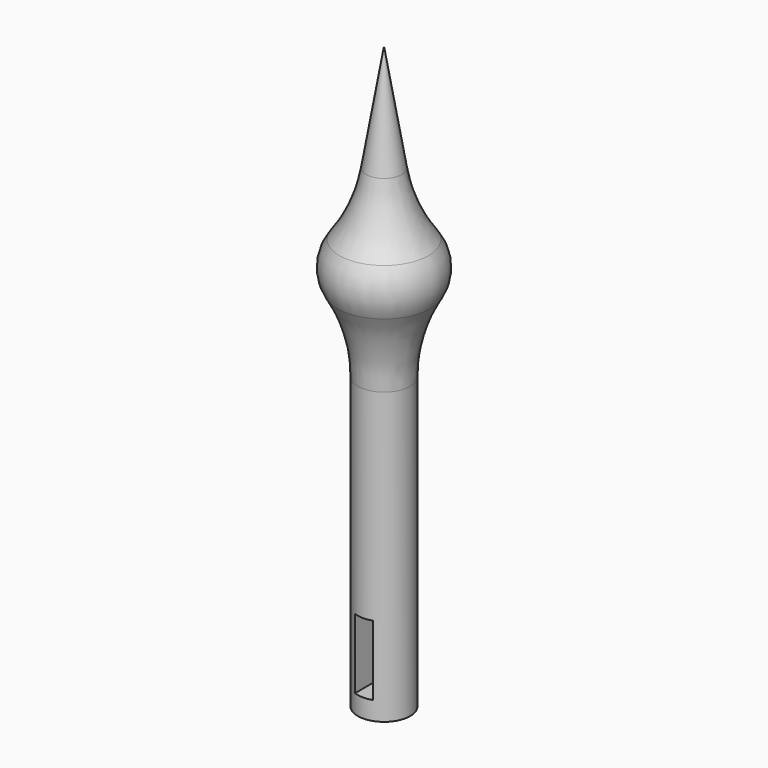
from build123d import *

# Parameters (mm, degrees)
F2_W     = 0.6228546263
F2_H     = 2.4024397135
F3_DEPTH = 12.7
F4_R     = 5.08


with BuildPart() as f1:
    # F0 (on Front) → F1 (revolve)
    with BuildSketch(Plane.XZ):
        with BuildLine():
            Line((1.8883474847, 0), (0.9883474847, 5.3636118397))
            Line((0.9883474847, 5.3636118397), (0.9883474847, -14.6363881603))
            Line((0.9883474847, -14.6363881603), (1.8883474847, -14.6363881603))
            Line((1.8883474847, -14.6363881603), (1.8883474847, -2.6669100628))
            ThreePointArc((1.8883474847, -2.6669100628), (2.7959176273, -1.3334550314), (1.8883474847, 0))
        make_face()
    revolve(axis=Axis((0.9883474847, 0, -4.6363881603), (0, 0, -1)))

    # F2 (on Front) → F3 (cut, symmetric)
    with BuildSketch(Plane.XZ):
        with Locations((0.9755069332, -12.7969710156)):
            Rectangle(F2_W, F2_H)
    extrude(amount=F3_DEPTH, both=True, mode=Mode.SUBTRACT)

    # F4
    f4_edges = [f1.edges().sort_by_distance(p)[0] for p in [
        (0.088347, 0, -2.66691),
        (0.088347, 0, 0),
    ]]
    fillet(f4_edges, radius=F4_R)


solid = f1.part
